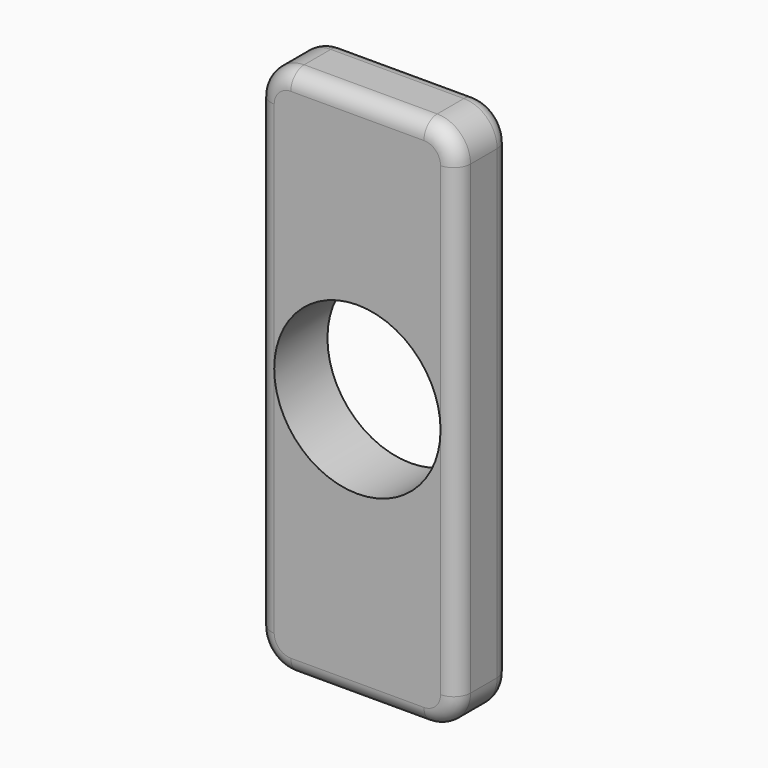
from build123d import *

# Parameters (mm, degrees)
F0_W     = 30
F0_H     = 80
F1_DEPTH = 10
F2_R     = 5
F3_R     = 5
F4_R     = 5
F5_R     = 5
F6_R     = 2.5
F7_R     = 2.5
F9_D     = 25


with BuildPart() as f1:
    # F0 (on Front) → F1 (new body)
    with BuildSketch(Plane.XZ):
        with Locations((15, 40)):
            Rectangle(F0_W, F0_H)
    extrude(amount=F1_DEPTH)

    # F2
    f2_edges = [f1.edges().sort_by_distance(p)[0] for p in [
        (30, -5, 80),
    ]]
    fillet(f2_edges, radius=F2_R)

    # F3
    f3_edges = [f1.edges().sort_by_distance(p)[0] for p in [
        (0, -5, 80),
    ]]
    fillet(f3_edges, radius=F3_R)

    # F4
    f4_edges = [f1.edges().sort_by_distance(p)[0] for p in [
        (0, -5, 0),
    ]]
    fillet(f4_edges, radius=F4_R)

    # F5
    f5_edges = [f1.edges().sort_by_distance(p)[0] for p in [
        (30, -5, 0),
    ]]
    fillet(f5_edges, radius=F5_R)

    # F6
    f6_edges = [f1.edges().sort_by_distance(p)[0] for p in [
        (28.535534, -10, 78.535534),
    ]]
    fillet(f6_edges, radius=F6_R)

    # F7
    f7_edges = [f1.edges().sort_by_distance(p)[0] for p in [
        (28.535534, 0, 78.535534),
    ]]
    fillet(f7_edges, radius=F7_R)

    # F9 (through all)
    with Locations(Plane.XZ.offset(10)):
        with Locations((15, 40)):
            Hole(F9_D / 2)


solid = f1.part
